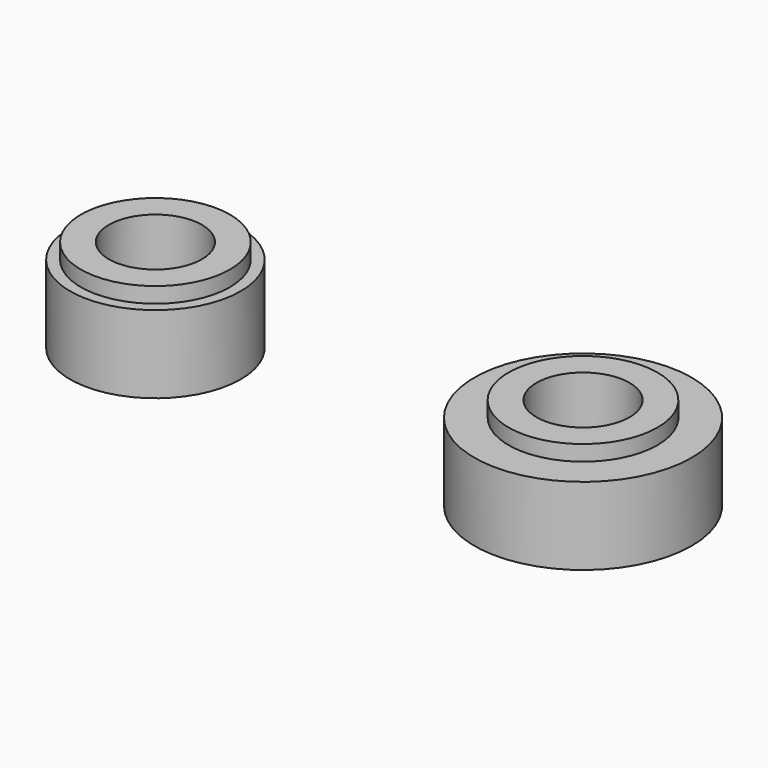
from build123d import *

# Parameters (mm, degrees)
F0_R     = 2.4
F0_R_2   = 1.5
F1_DEPTH = 3
F0_R_3   = 2.75
F0_R_4   = 3.5
F2_DEPTH = 2.5
F3_SIZE  = 0.5


with BuildPart() as f1:
    # F0 (on Top) → F1 (new body)
    with BuildSketch(Plane.XY):
        with Locations((-30.863109, 32.924905)):
            Circle(F0_R)
        with Locations((-30.863109, 32.924905)):
            Circle(F0_R_2, mode=Mode.SUBTRACT)
        with Locations((-17.087233, 32.924905)):
            Circle(F0_R)
        with Locations((-17.087233, 32.924905)):
            Circle(F0_R_2, mode=Mode.SUBTRACT)
    extrude(amount=F1_DEPTH)

    # F0 (on Top) → F2 (join)
    with BuildSketch(Plane.XY):
        with Locations((-30.863109, 32.924905)):
            Circle(F0_R_3)
        with Locations((-30.863109, 32.924905)):
            Circle(F0_R, mode=Mode.SUBTRACT)
        with Locations((-17.087233, 32.924905)):
            Circle(F0_R_4)
        with Locations((-17.087233, 32.924905)):
            Circle(F0_R, mode=Mode.SUBTRACT)
    extrude(amount=F2_DEPTH)

    # F3
    f3_edges = [f1.edges().sort_by_distance(p)[0] for p in [
        (-32.363109, 32.924905, 0),
        (-18.587233, 32.924905, 0),
    ]]
    chamfer(f3_edges, length=F3_SIZE)


solid = f1.part
